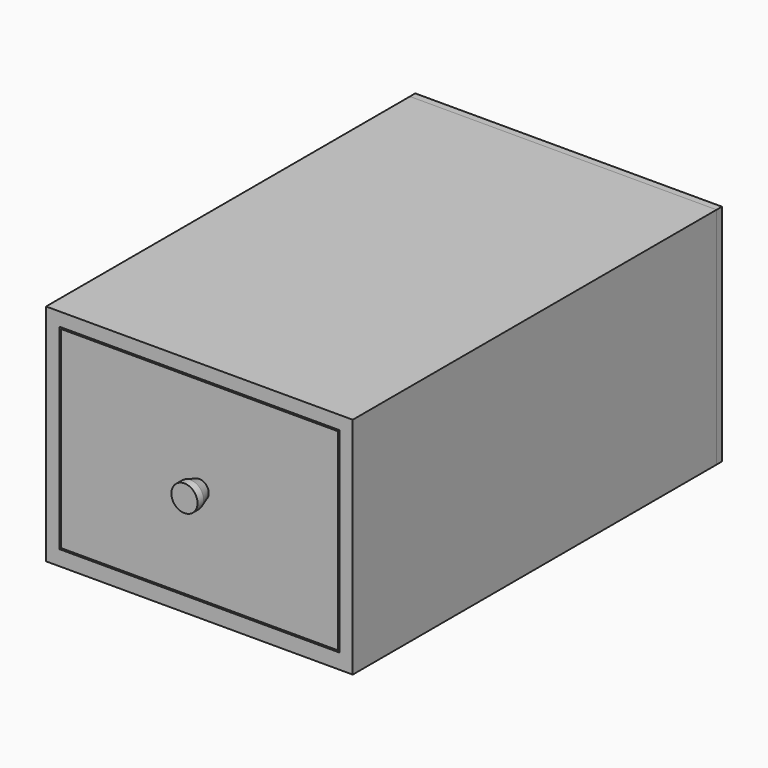
from build123d import *

# Parameters (mm, degrees)
F0_W      = 410
F0_H      = 300
F0_W_2    = 374
F0_H_2    = 261.838547
F1_DEPTH  = 608
F2_W      = 410
F2_H      = 300
F3_DEPTH  = 9
F4_W      = 370
F4_H      = 257.838547
F5_DEPTH  = 18
F6_W      = 345
F6_H      = 189.362255
F7_DEPTH  = 550
F8_T      = -18
F9_R      = 17.5
F10_DEPTH = 25
F11_SIZE2 = 5
F11_SIZE  = 15


with BuildPart() as f1:
    # F0 (on Front) → F1 (new body)
    with BuildSketch(Plane.XZ):
        with Locations((-121.848952, 78.456648)):
            Rectangle(F0_W, F0_H)
        with Locations((-121.848952, 79.537374)):
            Rectangle(F0_W_2, F0_H_2, mode=Mode.SUBTRACT)
    extrude(amount=F1_DEPTH)


with BuildPart() as f3:
    # F2 (on face) → F3 (new body)
    with BuildSketch(Plane(origin=(0, 0, 0), x_dir=(-1, 0, 0), z_dir=(0, 1, 0))):
        with Locations((121.848952, 78.456648)):
            Rectangle(F2_W, F2_H)
    extrude(amount=F3_DEPTH)


with BuildPart() as f5:
    # F4 (on face) → F5 (new body)
    with BuildSketch(Plane.XZ.offset(608)):
        with Locations((-121.848952, 79.537374)):
            Rectangle(F4_W, F4_H)
    extrude(amount=-F5_DEPTH)


with BuildPart() as f7:
    # F6 (on face) → F7 (new body)
    with BuildSketch(Plane(origin=(0, -590, 0), x_dir=(-1, 0, 0), z_dir=(0, 1, 0))):
        with Locations((121.848952, 65.299228)):
            Rectangle(F6_W, F6_H)
    extrude(amount=F7_DEPTH)

    # F8
    f8_openings = [f7.faces().sort_by_distance(p)[0] for p in [
        (-121.848952, -315, 159.980356),
    ]]
    offset(amount=F8_T, openings=f8_openings)


with BuildPart() as f10:
    # F9 (on face) → F10 (new body)
    with BuildSketch(Plane.XZ.offset(608)):
        with Locations((-121.848952, 79.537374)):
            Circle(F9_R)
    extrude(amount=F10_DEPTH)

    # F11
    f11_edges = [f10.edges().sort_by_distance(p)[0] for p in [
        (-139.348952, -608, 79.537374),
    ]]
    chamfer(f11_edges, length=F11_SIZE, length2=F11_SIZE2)


solid = Compound([f1.part, f3.part, f5.part, f7.part, f10.part])
